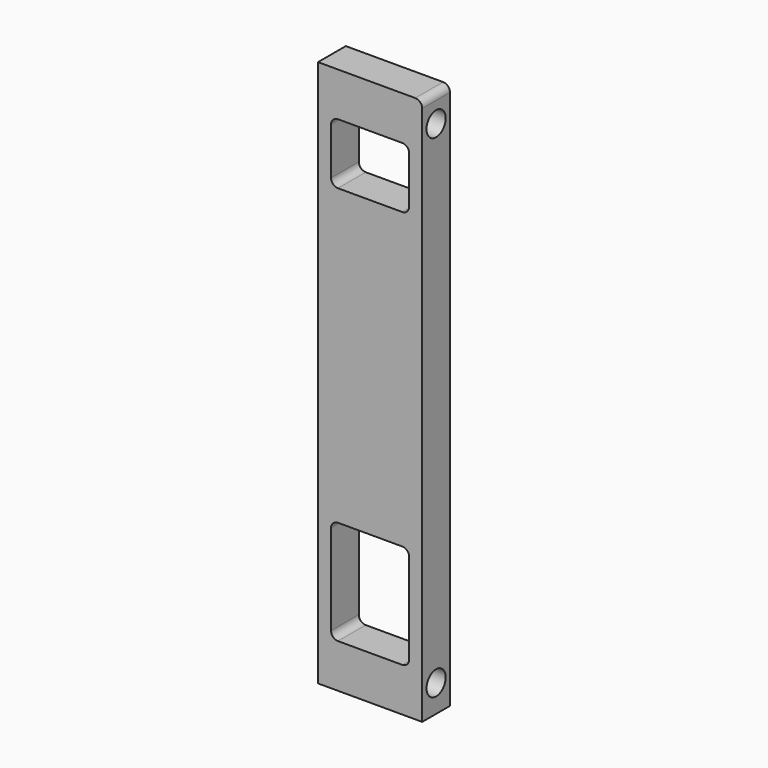
from build123d import *

# Parameters (mm, degrees)
F0_W     = 76.2
F0_H     = 400
F1_DEPTH = 25.4
F3_D     = 17.5
F4_W     = 57.15
F4_H     = 76.2
F4_H_2   = 44.45
F5_DEPTH = 25.401
F6_R     = 5.08
F7_R     = 5.08


with BuildPart() as f1:
    # F0 (on Front) → F1 (new body)
    with BuildSketch(Plane.XZ):
        with Locations((38.1, 200)):
            Rectangle(F0_W, F0_H)
    extrude(amount=F1_DEPTH)

    # F3 (through all)
    with Locations(Plane.YZ.offset(76.2)):
        with Locations((-12.7, 380), (-12.7, 20)):
            Hole(F3_D / 2)

    # F4 (on face) → F5 (cut, through all)
    with BuildSketch(Plane.XZ.offset(25.4)):
        with Locations((38.1, 70.1)):
            Rectangle(F4_W, F4_H)
        with Locations((38.1, 345.775)):
            Rectangle(F4_W, F4_H_2)
    extrude(amount=-F5_DEPTH, mode=Mode.SUBTRACT)

    # F6
    f6_edges = [f1.edges().sort_by_distance(p)[0] for p in [
        (9.525, -12.7, 108.2),
        (66.675, -12.7, 108.2),
        (66.675, -12.7, 32),
        (9.525, -12.7, 32),
        (9.525, -12.7, 323.55),
        (66.675, -12.7, 323.55),
        (9.525, -12.7, 368),
        (66.675, -12.7, 368),
    ]]
    fillet(f6_edges, radius=F6_R)

    # F7
    f7_edges = [f1.edges().sort_by_distance(p)[0] for p in [
        (76.2, -12.7, 400),
    ]]
    fillet(f7_edges, radius=F7_R)


solid = f1.part
